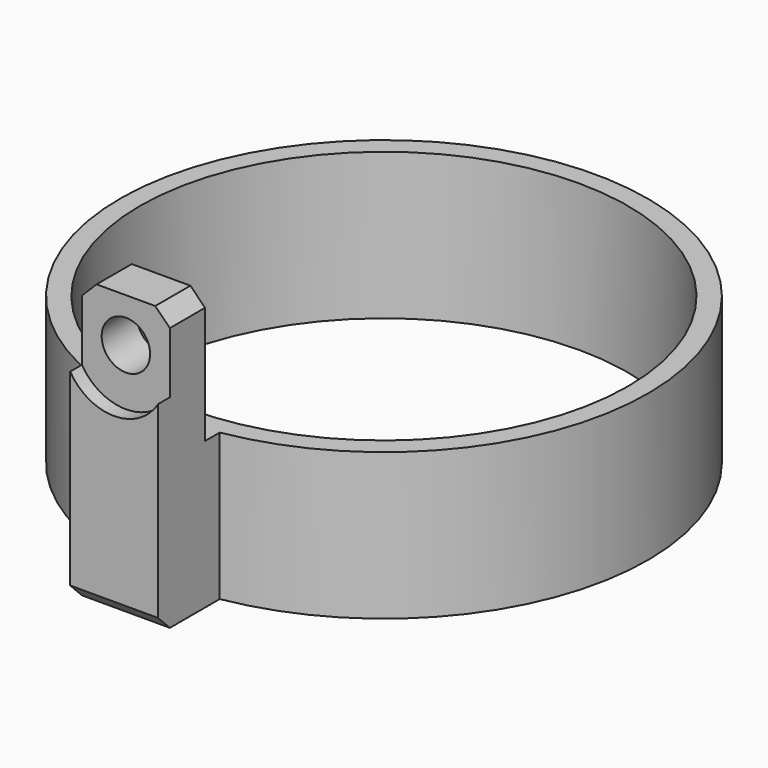
from build123d import *

# Parameters (mm, degrees)
SKETCH002_R     = 18
SKETCH002_R_2   = 16.65
PAD002_DEPTH    = 10
PAD003_DEPTH    = 10
SKETCH004_W     = 6
SKETCH004_H     = 4
PAD004_DEPTH    = 9
SKETCH005_R     = 1.65
POCKET_DEPTH    = 5
POCKET001_DEPTH = 1
CHAMFER001_SIZE = 1
CHAMFER002_SIZE = 1


with BuildPart() as part:
    # Sketch002 → Pad002 (new body)
    with BuildSketch(Plane.XY):
        Circle(SKETCH002_R)
        Circle(SKETCH002_R_2, mode=Mode.SUBTRACT)
    extrude(amount=PAD002_DEPTH)

    # Sketch003 (on Face3 of Pad002) → Pad003 (join)
    with BuildSketch(Plane(origin=(0, 0, 0), x_dir=(1, 0, 0), z_dir=(0, 0, -1))):
        with BuildLine():
            ThreePointArc((3, 17), (0, 17.262677), (-3, 17))
            Line((-3, 17), (-3, 23))
            Line((-3, 23), (3, 23))
            Line((3, 23), (3, 17))
        make_face()
    extrude(amount=-PAD003_DEPTH)

    # Sketch004 (on Face10 of Pad003) → Pad004 (join)
    with BuildSketch(Plane.XY.offset(10)):
        with Locations((0, -21)):
            Rectangle(SKETCH004_W, SKETCH004_H)
    extrude(amount=PAD004_DEPTH)

    # Sketch005 (on Face14 of Pad004) → Pocket (cut)
    with BuildSketch(Plane.XZ.offset(23)):
        with Locations((0, 16)):
            Circle(SKETCH005_R)
    extrude(amount=-POCKET_DEPTH, mode=Mode.SUBTRACT)

    # Sketch006 (on Face14 of Pocket) → Pocket001 (cut)
    with BuildSketch(Plane.XZ.offset(23)):
        with BuildLine():
            ThreePointArc((-3.5, 15.647562), (0, 12.147562), (3.5, 15.647562))
            Line((3.5, 15.647562), (3.5, 19))
            Line((3.5, 19), (-3.5, 19))
            Line((-3.5, 15.647562), (-3.5, 19))
        make_face()
    extrude(amount=-POCKET001_DEPTH, mode=Mode.SUBTRACT)

    # Chamfer001
    chamfer001_edges = [part.edges().sort_by_distance(p)[0] for p in [
        (3, -20.5, 19),
        (-3, -20.5, 19),
    ]]
    chamfer(chamfer001_edges, length=CHAMFER001_SIZE)

    # Chamfer002
    chamfer002_edges = [part.edges().sort_by_distance(p)[0] for p in [
        (0, -23, 0),
    ]]
    chamfer(chamfer002_edges, length=CHAMFER002_SIZE)


solid = part.part
